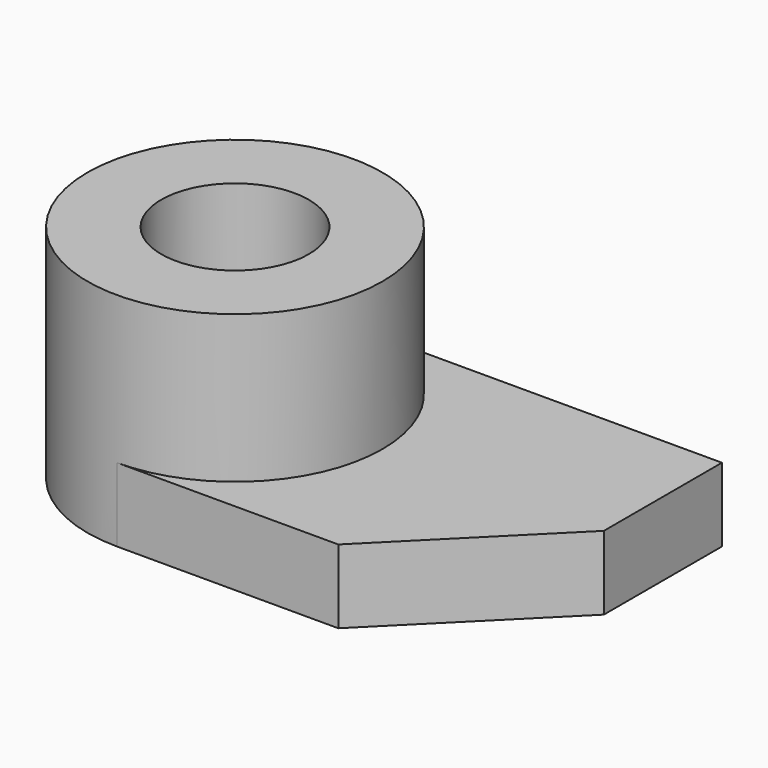
from build123d import *

# Parameters (mm, degrees)
F0_R     = 6.35
F1_DEPTH = 6.35
F2_R     = 12.7
F2_R_2   = 6.35
F3_DEPTH = 12.7


with BuildPart() as f1:
    # F0 (on Top) → F1 (new body)
    with BuildSketch(Plane.XY):
        with BuildLine():
            Line((31.75, 0), (0, 0))
            ThreePointArc((0, 0), (-12.7, -12.7), (0, -25.4))
            Line((0, -25.4), (19.05, -25.4))
            Line((19.05, -25.4), (31.75, -12.7))
            Line((31.75, -12.7), (31.75, 0))
        make_face()
        with Locations((0, -12.7)):
            Circle(F0_R, mode=Mode.SUBTRACT)
    extrude(amount=F1_DEPTH)

    # F2 (on face) → F3 (join)
    with BuildSketch(Plane.XY.offset(6.35)):
        with Locations((0, -12.7)):
            Circle(F2_R)
        with Locations((0, -12.7)):
            Circle(F2_R_2, mode=Mode.SUBTRACT)
    extrude(amount=F3_DEPTH)


solid = f1.part
